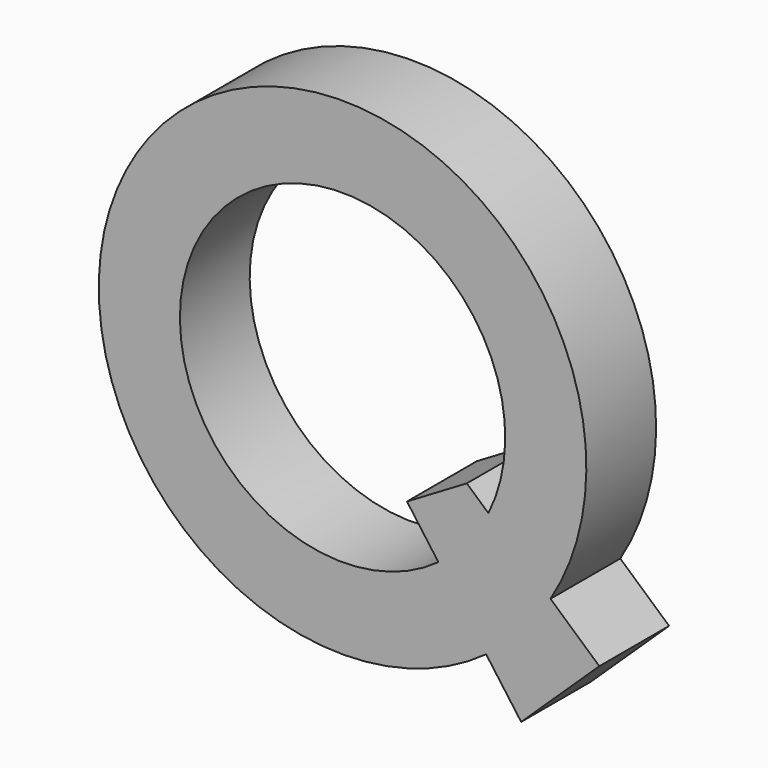
from build123d import *

# Parameters (mm, degrees)
F1_DEPTH = 25.4


with BuildPart() as f1:
    # F0 (on Front) → F1 (new body)
    with BuildSketch(Plane.XZ):
        with BuildLine():
            Line((74.7649, -49.695101), (60.549925, -37.052288))
            ThreePointArc((60.549925, -37.052288), (-52.1772, 48.132165), (41.807473, -57.369859))
            Line((41.807473, -57.369859), (52.006498, -71.386702))
            Line((52.006498, -71.386702), (74.7649, -49.695101))
        make_face()
        with BuildLine():
            ThreePointArc((27.910055, -38.270196), (-36.237511, 30.502817), (42.470442, -20.972377))
            Line((42.470442, -20.972377), (36.182303, -15.3797))
            Line((36.182303, -15.3797), (18.7579, -25.6921))
            Line((18.7579, -25.6921), (27.910055, -38.270196))
        make_face(mode=Mode.SUBTRACT)
    extrude(amount=F1_DEPTH)


solid = f1.part
